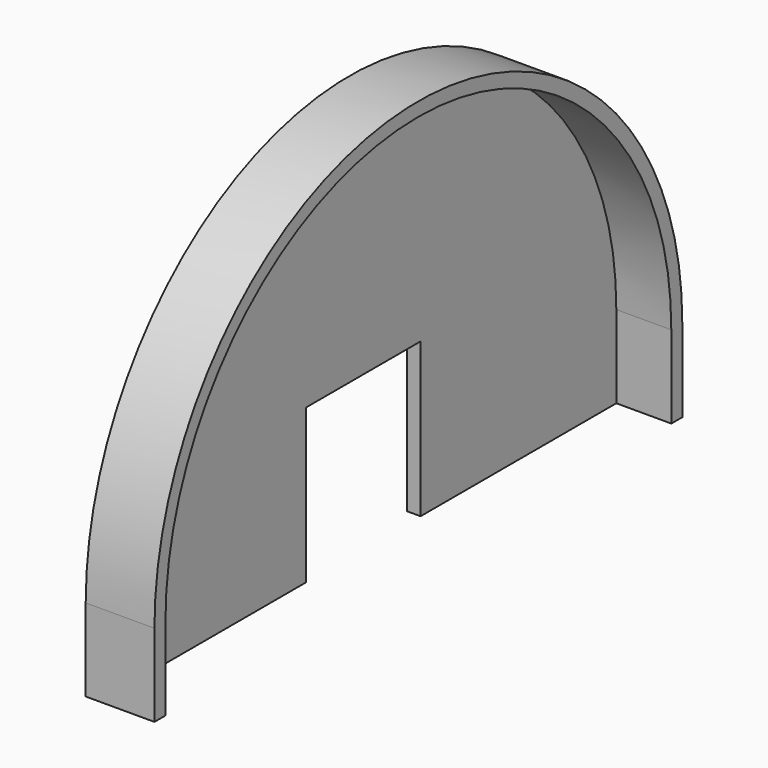
from build123d import *

# Parameters (mm, degrees)
F1_DEPTH = 5
F2_DEPTH = 25


with BuildPart() as f1:
    # F0 (on Right) → F1 (new body)
    with BuildSketch(Plane.YZ):
        with BuildLine():
            Line((115, -30), (115, 0))
            ThreePointArc((115, 0), (0, 115), (-115, 0))
            Line((-115, 0), (-115, -30))
            Line((-115, -30), (-26, -30))
            Line((-26, -30), (-26, 26))
            Line((-26, 26), (0, 26))
            Line((0, 26), (26, 26))
            Line((26, 26), (26, -30))
            Line((26, -30), (115, -30))
        make_face()
    extrude(amount=F1_DEPTH)

    # F0 (on Right) → F2 (join)
    with BuildSketch(Plane.YZ):
        with BuildLine():
            ThreePointArc((-115, 0), (0, 115), (115, 0))
            Line((115, 0), (115, -30))
            Line((115, -30), (116.1895, -30))
            Line((116.1895, -30), (120, -30))
            Line((120, -30), (120, 0))
            ThreePointArc((120, 0), (0, 120), (-120, 0))
            Line((-120, 0), (-120, -30))
            Line((-120, -30), (-115, -30))
            Line((-115, -30), (-115, 0))
        make_face()
    extrude(amount=F2_DEPTH)


solid = f1.part
